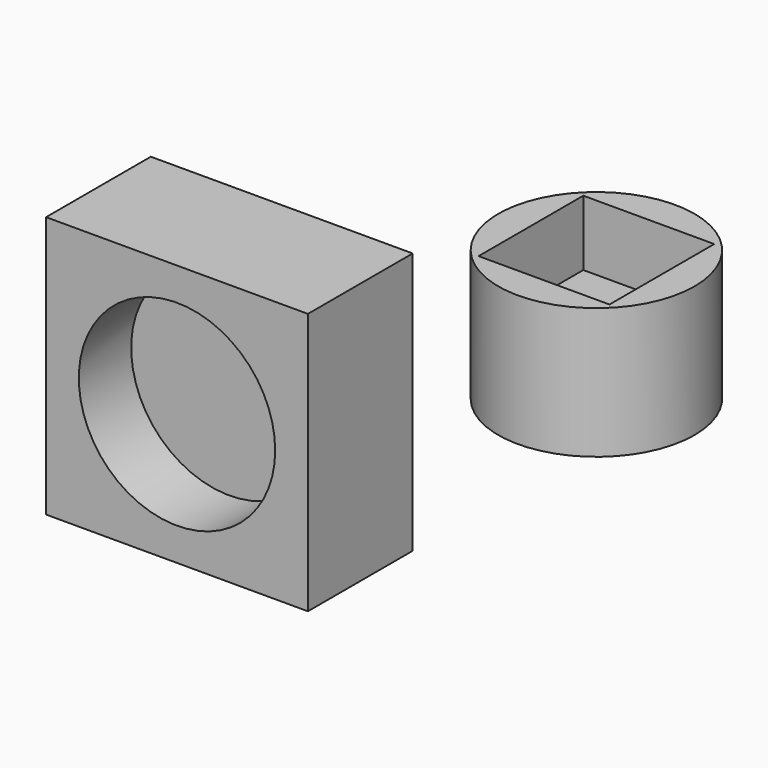
from build123d import *

# Parameters (mm, degrees)
F0_R     = 38.1
F0_W     = 50.8
F0_H     = 50.8
F1_DEPTH = 50.8
F2_DEPTH = 25.4
F3_W     = 101.6
F3_H     = 101.6
F3_R     = 38.1
F4_DEPTH = 50.8
F5_DEPTH = 25.4


with BuildPart() as f1:
    # F0 (on Top) → F1 (new body)
    with BuildSketch(Plane.XY):
        Circle(F0_R)
        Rectangle(F0_W, F0_H, mode=Mode.SUBTRACT)
    extrude(amount=F1_DEPTH)

    # F0 (on Top) → F2 (join)
    with BuildSketch(Plane.XY):
        Rectangle(F0_W, F0_H)
    extrude(amount=F2_DEPTH)


with BuildPart() as f4:
    # F3 (on Front) → F4 (new body)
    with BuildSketch(Plane.XZ):
        with Locations((-122.096188, -24.32674)):
            Rectangle(F3_W, F3_H)
        with Locations((-122.096188, -24.32674)):
            Circle(F3_R, mode=Mode.SUBTRACT)
    extrude(amount=F4_DEPTH)

    # F3 (on Front) → F5 (join)
    with BuildSketch(Plane.XZ):
        with Locations((-122.096188, -24.32674)):
            Circle(F3_R)
    extrude(amount=F5_DEPTH)


solid = Compound([f1.part, f4.part])
